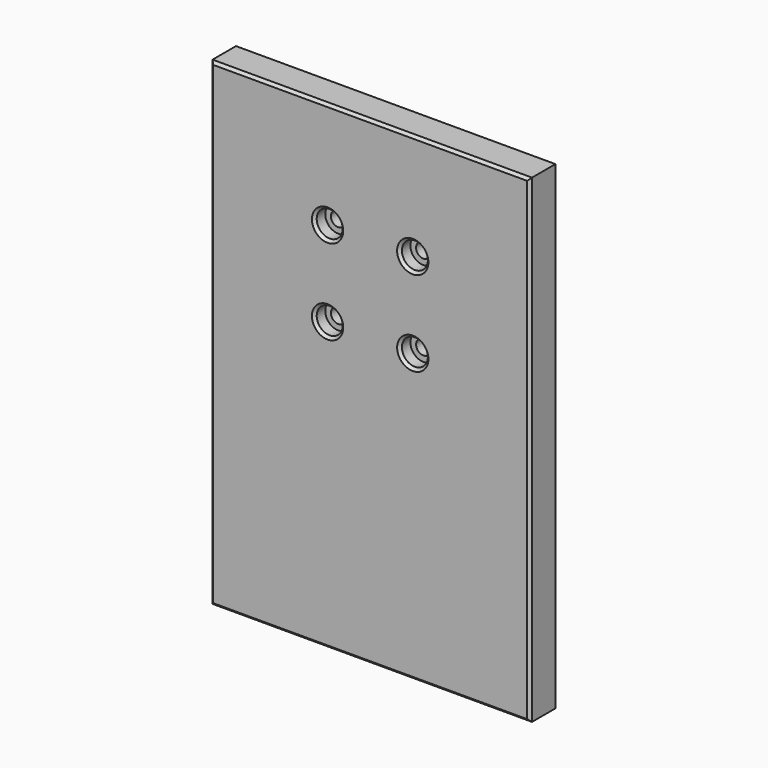
from build123d import *

# Parameters (mm, degrees)
F0_W           = 120
F0_H           = 180
F1_DEPTH       = 13
F3_D           = 5.5
F3_CBORE_D     = 9.75
F3_CBORE_DEPTH = 5
F4_SIZE        = 1
F5_SIZE        = 1


with BuildPart() as f1:
    # F0 (on Front) → F1 (new body)
    with BuildSketch(Plane.XZ):
        with Locations((60, 90)):
            Rectangle(F0_W, F0_H)
        with Locations((60, 90)):
            Rectangle(F0_W, F0_H)
    extrude(amount=F1_DEPTH)

    # F3 (through all)
    with Locations(Plane.XZ.offset(13)):
        with Locations((44, 140), (44, 108), (76, 140), (76, 108)):
            CounterBoreHole(F3_D / 2, F3_CBORE_D / 2, F3_CBORE_DEPTH)

    # F4
    f4_edges = [f1.edges().sort_by_distance(p)[0] for p in [
        (60, -13, 180),
        (0, -13, 90),
        (60, -13, 0),
        (120, -13, 90),
        (39.125, -13, 108),
        (71.125, -13, 108),
        (39.125, -13, 140),
        (71.125, -13, 140),
    ]]
    chamfer(f4_edges, length=F4_SIZE)

    # F5
    f5_edges = [f1.edges().sort_by_distance(p)[0] for p in [
        (0, 0, 90),
        (60, 0, 180),
        (60, 0, 0),
        (120, 0, 90),
        (41.25, 0, 108),
        (73.25, 0, 108),
        (41.25, 0, 140),
        (73.25, 0, 140),
    ]]
    chamfer(f5_edges, length=F5_SIZE)


solid = f1.part
